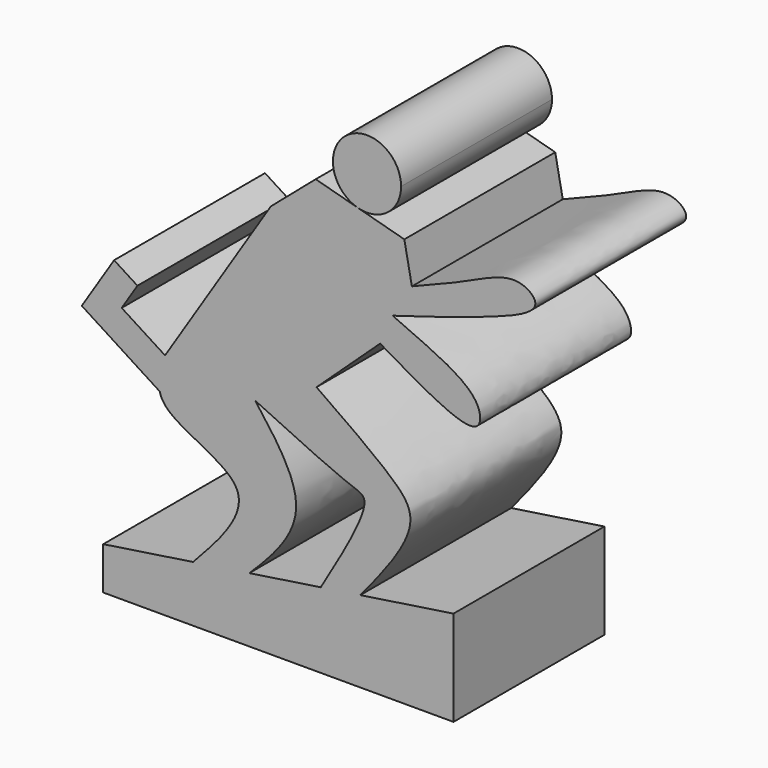
from build123d import *

# Parameters (mm, degrees)
F1_DEPTH = 50.8


with BuildPart() as f1:
    # F0 (on Front) → F1 (new body)
    with BuildSketch(Plane.XZ):
        with BuildLine():
            ThreePointArc((23.4904331816, 37.7642321419), (31.4780666714, 39.3282099299), (35.0852778938, 46.6245338321))
            ThreePointArc((35.0852778938, 46.6245338321), (20.3269676085, 53.9208577342), (23.4904331816, 37.7642321419))
        make_face()
    extrude(amount=F1_DEPTH)


with BuildPart() as f1b:
    # F0 (on Front) → F1, piece 2 (new body)
    with BuildSketch(Plane.XZ):
        with BuildLine():
            Line((35.9561140415, 34.3706380688), (23.4904331816, 37.7642321419))
            Line((23.4904331816, 37.7642321419), (12.0878405869, 40.8684164286))
            Line((12.0878405869, 40.8684164286), (0, 30.5074099451))
            Line((0, 30.5074099451), (-28.4927692264, -14.1024822369))
            add(Edge.make_bspline(
                [(-28.4927692264, -14.1024822369), (-29.5476002157, -17.2193216392), (-30.602431205, -20.3361610415), (-29.9139391738, -23.1267512515)],
                knots=[0, 0, 0, 0, 0.1910860105, 0.1910860105, 0.1910860105, 0.1910860105], degree=3))
            add(Edge.make_bspline(
                [(-29.9139391738, -23.1267512515), (-29.6748284007, -24.0959130607), (-26.7624029914, -30.1219903135), (0.5713777919, -37.1331278434), (-13.5086199187, -52.7356432699), (-20.9398407804, -60.6276217635)],
                knots=[0.1910860105, 0.1910860105, 0.1910860105, 0.1910860105, 0.2574494855, 0.621185547, 0.9847985313, 0.9847985313, 0.9847985313, 0.9847985313], degree=3))
            Line((-20.9398407804, -60.6276217635), (-5.7932562388, -58.3454464034))
            add(Edge.make_bspline(
                [(-4.178805737, -16.9499703617), (1.5919751633, -24.5668884995), (12.5368791959, -38.8870667917), (0.5870092773, -52.1448461059), (-5.7932562388, -58.3454464034)],
                knots=[0, 0, 0, 0, 0.4888235781, 0.9234776791, 0.9234776791, 0.9234776791, 0.9234776791], degree=3))
            add(Edge.make_bspline(
                [(-4.178805737, -16.9499703617), (6.6316430199, -22.104983779), (20.7032622776, -28.6717801623), (28.1378843497, -30.3622553848), (19.7053001009, -44.8816417053), (13.4511029551, -55.4458486589)],
                knots=[0.1011382232, 0.1011382232, 0.1011382232, 0.1011382232, 0.4530933244, 0.608593632, 0.9815341736, 0.9815341736, 0.9815341736, 0.9815341736], degree=3))
            Line((13.4511029551, -55.4458486589), (24.0954982368, -53.8420298859))
            add(Edge.make_bspline(
                [(12.3059292945, -8.3718015314), (19.9084696657, -13.604507383), (32.4797550905, -22.5866268837), (41.4068524809, -32.1617669479), (30.9041873033, -45.6496674139), (24.0954982368, -53.8420298859)],
                knots=[0.1418198303, 0.1418198303, 0.1418198303, 0.1418198303, 0.4134701455, 0.6388406224, 0.958792406, 0.958792406, 0.958792406, 0.958792406], degree=3))
            Line((12.3059292945, -8.3718015314), (29.4423247475, 7.542570238))
            add(Edge.make_bspline(
                [(29.4423247475, 7.542570238), (22.814086625, 11.3553363714), (18.7460910462, 13.304520672), (14.6780954674, 15.2537049726)],
                knots=[0.806129921, 0.806129921, 0.806129921, 0.806129921, 1, 1, 1, 1], degree=3))
            Line((14.6780954674, 15.2537049726), (18.4195693582, 23.8878782839))
            add(Edge.make_bspline(
                [(18.4195693582, 23.8878782839), (22.5201600862, 21.0424039005), (26.6207508141, 18.1969295171), (32.8098610044, 15.2537049726)],
                knots=[0, 0, 0, 0, 0.1945971347, 0.1945971347, 0.1945971347, 0.1945971347], degree=3))
            Line((32.8098610044, 15.2537049726), (37.9903614521, 23.8878782839))
            Line((37.9903614521, 23.8878782839), (35.9561140415, 34.3706380688))
        make_face()
        with BuildLine():
            add(Edge.make_bspline(
                [(37.9903614521, 23.8878782839), (43.3824745338, 26.0133221655), (53.4847767732, 29.9954115912), (65.8251420478, 36.3405067866), (74.6480218008, 29.5938375248), (57.8633846978, 22.7252660999), (42.1730998761, 18.0460471771), (32.8098610044, 15.2537049726)],
                knots=[0, 0, 0, 0, 0.2168743136, 0.4063212012, 0.5331428508, 0.7214011691, 1, 1, 1, 1], degree=3))
            Line((37.9903614521, 23.8878782839), (32.8098610044, 15.2537049726))
        make_face()
        with BuildLine():
            add(Edge.make_bspline(
                [(-28.4927692264, -14.1024822369), (-29.5476002157, -17.2193216392), (-30.602431205, -20.3361610415), (-29.9139391738, -23.1267512515)],
                knots=[0, 0, 0, 0, 0.1910860105, 0.1910860105, 0.1910860105, 0.1910860105], degree=3))
            Line((-28.4927692264, -14.1024822369), (-40.1715503245, -6.6431318911))
            Line((-40.1715503245, -6.6431318911), (-35.9285177894, 0))
            Line((-35.9285177894, 0), (-42.2074973115, 4.010444898))
            Line((-42.2074973115, 4.010444898), (-50.9230444824, -9.6351090498))
            Line((-50.9230444824, -9.6351090498), (-29.9139391738, -23.1267512515))
        make_face()
        with BuildLine():
            add(Edge.make_bspline(
                [(32.8098610044, 15.2537049726), (40.442646771, 11.6239420953), (56.6753619272, 5.9497215234), (57.086857155, -9.3297061895), (38.0282970739, 2.6036552648), (29.4423247475, 7.542570238)],
                knots=[0.1945971347, 0.1945971347, 0.1945971347, 0.1945971347, 0.4345861145, 0.554997855, 0.806129921, 0.806129921, 0.806129921, 0.806129921], degree=3))
            add(Edge.make_bspline(
                [(18.4195693582, 23.8878782839), (22.5201600862, 21.0424039005), (26.6207508141, 18.1969295171), (32.8098610044, 15.2537049726)],
                knots=[0, 0, 0, 0, 0.1945971347, 0.1945971347, 0.1945971347, 0.1945971347], degree=3))
            Line((18.4195693582, 23.8878782839), (14.6780954674, 15.2537049726))
            add(Edge.make_bspline(
                [(29.4423247475, 7.542570238), (22.814086625, 11.3553363714), (18.7460910462, 13.304520672), (14.6780954674, 15.2537049726)],
                knots=[0.806129921, 0.806129921, 0.806129921, 0.806129921, 1, 1, 1, 1], degree=3))
        make_face()
        Polygon((-5.7932562388, -58.3454464034), (-20.9398407804, -60.6276217635), (-45.138027519, -64.2736256123), (-45.138027519, -75.7419392467), (49.200579524, -75.7419392467), (49.200579524, -50.0593818724), (24.0954982368, -53.8420298859), (13.4511029551, -55.4458486589), align=None)
    extrude(amount=F1_DEPTH)


solid = Compound([f1.part, f1b.part])
